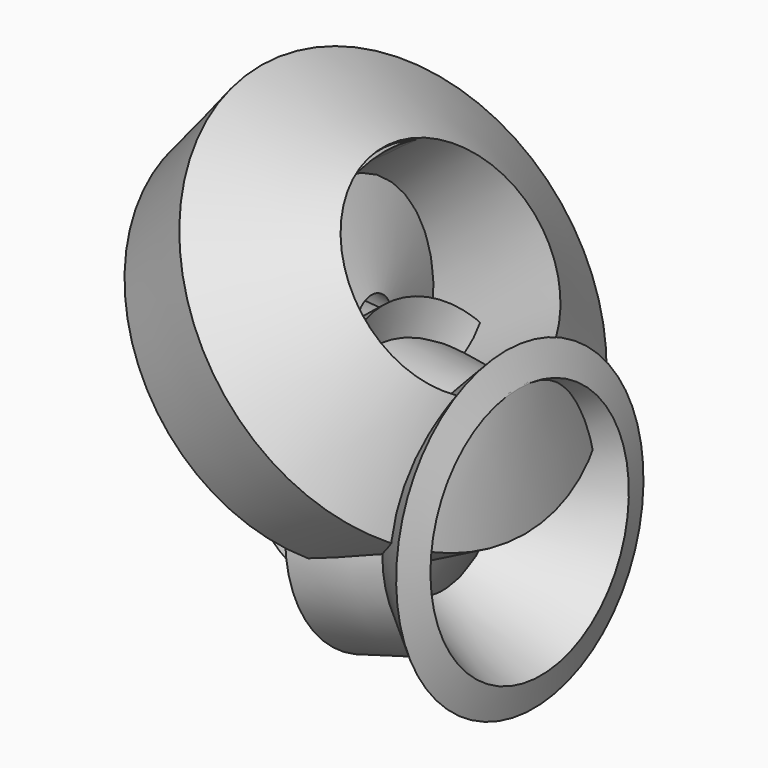
from build123d import *


with BuildPart() as f1:
    # F0 (on Front) → F1 (revolve)
    with BuildSketch(Plane.XZ):
        Polygon((-65.681711, 23.702536), (-31.412993, 41.979186), (-27.414974, 65.110572), (-40.836889, 54.258808), (-85.957371, 49.118504), align=None)
    revolve(axis=Axis((7.996036, 0, 14.84978), (0.828216, 0, 0.560409)))


with BuildPart() as f2:
    # F0 (on Front) → F2 (revolve)
    with BuildSketch(Plane.XZ):
        Polygon((-39.6946, -17.419931), (-31.412993, 41.979186), (-65.681711, 23.702536), (-68.251863, -39.980169), (-5.425877, -34.268718), align=None)
    revolve(axis=Axis((-63.39713, 0, 51.688656), (0.993573, 0, 0.113192)))


with BuildPart() as f3:
    # F0 (on Front) → F3 (revolve)
    with BuildSketch(Plane.XZ):
        Polygon((55.686671, 47.119491), (-39.6946, -17.419931), (-5.425877, -34.268718), (-41.408036, -53.402089), (5.711456, -57.685681), (59.684694, -29.985128), align=None)
    revolve(axis=Axis((-34.125932, 0, 59.68469), (0.77763, 0, 0.628722)))


with BuildPart() as f4:
    # F0 (on Front) → F4 (revolve)
    with BuildSketch(Plane.XZ):
        Polygon((21.703528, 37.695594), (-31.412993, 41.979186), (-39.6946, -17.419931), (55.686671, 47.119491), (47.976214, 65.110572), align=None)
    revolve(axis=Axis((-36.83887, 0, -37.124444), (-0.995893, 0, -0.090536)))


solid = Compound([f1.part, f2.part, f3.part, f4.part])
